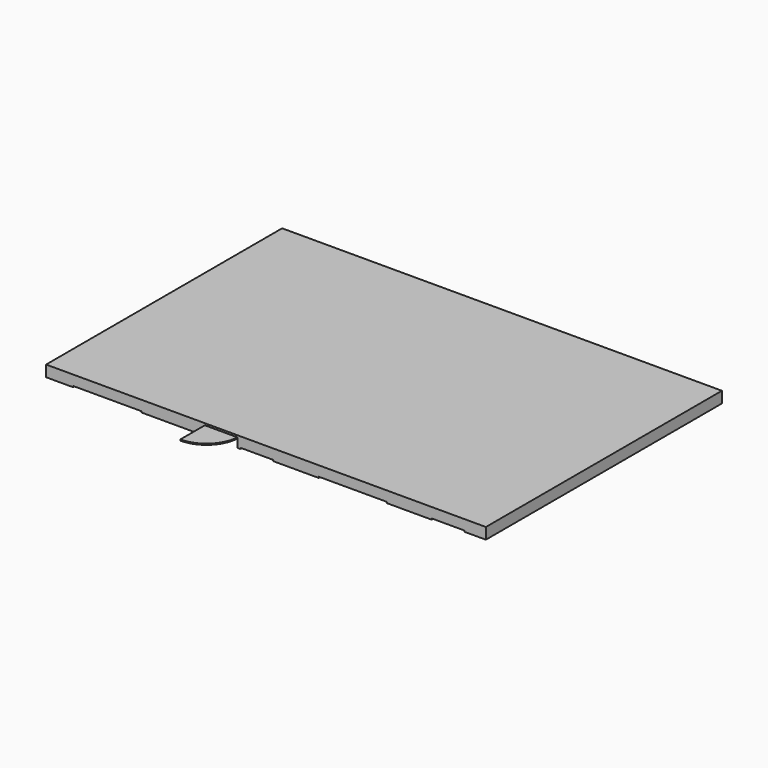
from build123d import *

# Parameters (mm, degrees)
F1_DEPTH = 304.8
F2_W     = 11963.4
F2_H     = 8026.4
F3_DEPTH = 50.8
F4_W     = 889
F4_H     = 127
F4_W_2   = 1854.2
F5_DEPTH = 30.48
F6_W     = 4648.2
F6_H     = 635
F6_W_2   = 3530.6
F6_H_2   = 571.5
F7_DEPTH = 30.48


with BuildPart() as f1:
    # F0 (on Top) → F1 (new body)
    with BuildSketch(Plane.XY):
        Polygon((4318, 127), (127, 127), (127, 7899.4), (5207, 7899.4), (5207, 8026.4), (0, 8026.4), (0, 0), (4318, 0), align=None)
        Polygon((11963.4, 8026.4), (6096, 8026.4), (6096, 7899.4), (6223, 7899.4), (6223, 6096), (6477, 6096), (6477, 6223), (6350, 6223), (6350, 7899.4), (11836.4, 7899.4), (11836.4, 6223), (7366, 6223), (7366, 6096), (7493, 6096), (7493, 6026.15), (7620, 6026.15), (7620, 6096), (8661.4, 6096), (8661.4, 5067.3), (7620, 5067.3), (7620, 5137.15), (7493, 5137.15), (7493, 4870.45), (7620, 4870.45), (7620, 4940.3), (8661.4, 4940.3), (8661.4, 3911.6), (7620, 3911.6), (7620, 3981.45), (7493, 3981.45), (7493, 3911.6), (7366, 3911.6), (7366, 3784.6), (10820.4, 3784.6), (10820.4, 3911.6), (8788.4, 3911.6), (8788.4, 6096), (11836.4, 6096), (11836.4, 3911.6), (11709.4, 3911.6), (11709.4, 3784.6), (11836.4, 3784.6), (11836.4, 127), (6350, 127), (6350, 3784.6), (6477, 3784.6), (6477, 3911.6), (6350, 3911.6), (6350, 4870.45), (6223, 4870.45), (6223, 127), (5207, 127), (5207, 0), (11963.4, 0), align=None)
    extrude(amount=-F1_DEPTH)

    # F2 (on face) → F3 (join)
    with BuildSketch(Plane.XY):
        with Locations((5981.7, 4013.2)):
            Rectangle(F2_W, F2_H)
    extrude(amount=-F3_DEPTH)

    # F4 (on face) → F5 (cut)
    with BuildSketch(Plane(origin=(0, 0, -304.8), x_dir=(1, 0, 0), z_dir=(0, 0, -1))):
        with Locations((5727.7, -63.5)):
            Rectangle(F4_W, F4_H)
        with Locations((8343.9, -63.5)):
            Rectangle(F4_W_2, F4_H)
        with Locations((10934.7, -63.5)):
            Rectangle(F4_W, F4_H)
        with Locations((1663.7, -63.5)):
            Rectangle(F4_W_2, F4_H)
    extrude(amount=-F5_DEPTH, mode=Mode.SUBTRACT)

    # F6 (on face) → F7 (join)
    with BuildSketch(Plane(origin=(0, 0, -50.8), x_dir=(1, 0, 0), z_dir=(0, 0, -1))):
        with BuildLine():
            ThreePointArc((3716.02, -5384.8), (3626.746147, -5169.273853), (3411.22, -5080))
            Line((3411.22, -5080), (1490.98, -5080))
            ThreePointArc((1490.98, -5080), (1275.453853, -5169.273853), (1186.18, -5384.8))
            Line((1186.18, -5384.8), (1186.18, -5943.6))
            Line((1186.18, -5943.6), (3716.02, -5943.6))
            Line((3716.02, -5943.6), (3716.02, -5384.8))
        make_face()
        with Locations((2451.1, -7581.9)):
            Rectangle(F6_W, F6_H)
        with Locations((8115.3, -7613.65)):
            Rectangle(F6_W_2, F6_H_2)
        with BuildLine():
            Line((4318, 831.39637), (4318, -63.5))
            Line((4318, -63.5), (5207, -63.5))
            Line((5207, -63.5), (5207, -52.52363))
            ThreePointArc((5207, -52.52363), (4948.105826, 572.502196), (4323.08, 831.39637))
            Line((4323.08, 831.39637), (4318, 831.39637))
        make_face()
        with BuildLine():
            Line((6477, -2959.1), (6477, -3848.1))
            Line((6477, -3848.1), (7366, -3848.1))
            Line((7366, -3848.1), (7366, -3843.02))
            ThreePointArc((7366, -3843.02), (7107.105826, -3217.994174), (6482.08, -2959.1))
            Line((6482.08, -2959.1), (6477, -2959.1))
        make_face()
        with BuildLine():
            Line((6667.5, -6026.15), (7556.5, -6026.15))
            Line((7556.5, -6026.15), (7556.5, -5137.15))
            Line((7556.5, -5137.15), (7551.42, -5137.15))
            ThreePointArc((7551.42, -5137.15), (6926.394174, -5396.044174), (6667.5, -6021.07))
            Line((6667.5, -6021.07), (6667.5, -6026.15))
        make_face()
        with BuildLine():
            Line((7556.5, -4870.45), (7556.5, -3981.45))
            Line((7556.5, -3981.45), (6667.5, -3981.45))
            Line((6667.5, -3981.45), (6667.5, -3986.53))
            ThreePointArc((6667.5, -3986.53), (6926.394174, -4611.555826), (7551.42, -4870.45))
            Line((7551.42, -4870.45), (7556.5, -4870.45))
        make_face()
        with BuildLine():
            Line((7366, -6159.5), (6477, -6159.5))
            Line((6477, -6159.5), (6477, -7048.5))
            Line((6477, -7048.5), (6482.08, -7048.5))
            ThreePointArc((6482.08, -7048.5), (7107.105826, -6789.605826), (7366, -6164.58))
            Line((7366, -6164.58), (7366, -6159.5))
        make_face()
        with BuildLine():
            Line((11709.4, -4737.1), (11709.4, -3848.1))
            Line((11709.4, -3848.1), (10820.4, -3848.1))
            Line((10820.4, -3848.1), (10820.4, -3853.18))
            ThreePointArc((10820.4, -3853.18), (11079.294174, -4478.205826), (11704.32, -4737.1))
            Line((11704.32, -4737.1), (11709.4, -4737.1))
        make_face()
        with BuildLine():
            Line((5207, -7957.82), (5207, -7962.9))
            Line((5207, -7962.9), (6096, -7962.9))
            Line((6096, -7962.9), (6096, -7073.9))
            Line((6096, -7073.9), (6090.92, -7073.9))
            ThreePointArc((6090.92, -7073.9), (5465.894174, -7332.794174), (5207, -7957.82))
        make_face()
    extrude(amount=F7_DEPTH)


solid = f1.part
